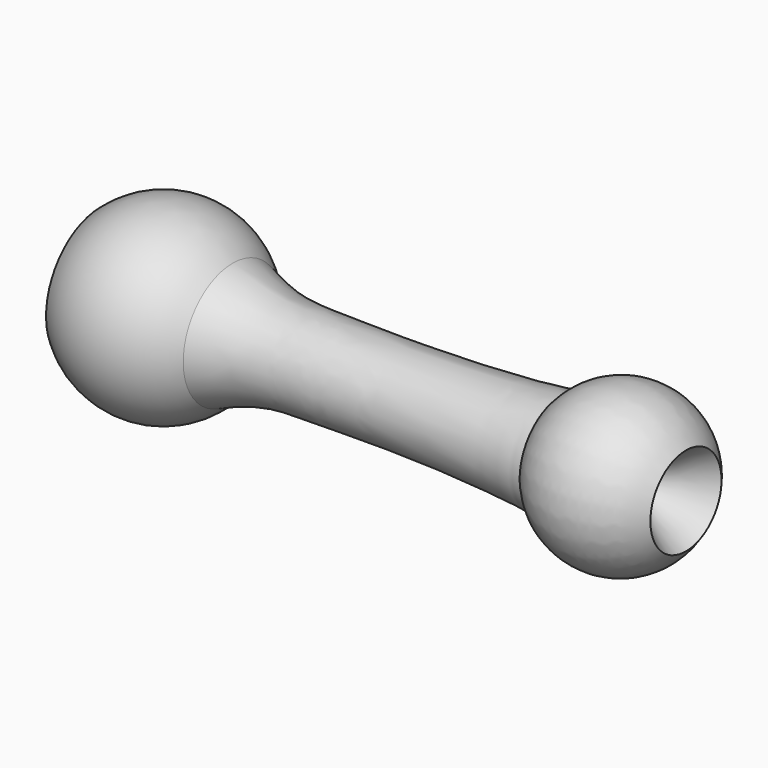
from build123d import *

# Parameters (mm, degrees)
F2_R     = 1.5
F3_DEPTH = 15


with BuildPart() as f1:
    # F0 (on Front) → F1 (revolve)
    with BuildSketch(Plane.XZ):
        with BuildLine():
            add(Edge.make_bspline(
                [(10.6524407623, 9.5214215845), (16.9594295824, 6.846512057), (23.6366284889, 6.813516644), (48.4088717457, 6.4159839242), (61.3018820008, 8.0772608919)],
                knots=[0, 0, 0, 0, 0.3859038631, 1, 1, 1, 1], degree=3))
            ThreePointArc((10.6524407623, 9.5214215845), (0.6865334357, 14.2709717618), (-9.6892705187, 10.5))
            Line((-9.6892705187, 10.5), (-9.6892705187, 2.5))
            Line((-9.6892705187, 2.5), (12.2474487139, 2.5))
            Line((12.2474487139, 2.5), (74.2474487139, 2.5))
            Line((74.2474487139, 2.5), (80.4566636234, 6.848955093))
            ThreePointArc((80.4566636234, 6.848955093), (71.1861926887, 12.2493617225), (61.3018820008, 8.0772608919))
        make_face()
    revolve(axis=Axis((35, 0, 0), (1, 0, 0)))

    # F2 (on face) → F3 (cut)
    with BuildSketch(Plane(origin=(-9.6892705187, 0, 0), x_dir=(0, -1, 0), z_dir=(-1, 0, 0))):
        with Locations((-4, 5)):
            Circle(F2_R)
        with Locations((4, 5)):
            Circle(F2_R)
        with Locations((4, -5)):
            Circle(F2_R)
        with Locations((-4, -5)):
            Circle(F2_R)
    extrude(amount=-F3_DEPTH, mode=Mode.SUBTRACT)


solid = f1.part
